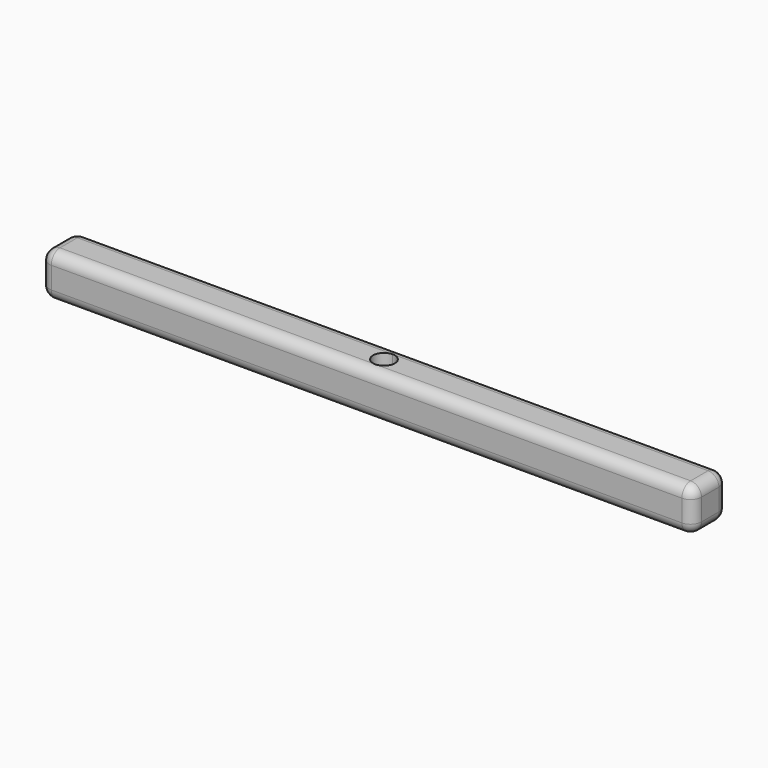
from build123d import *

# Parameters (mm, degrees)
F0_W          = 25.4
F0_H          = 25.4
F1_DEPTH      = 304.8
F1_DEPTH_BACK = 76.2
F2_R          = 6.35
F4_DEPTH      = 25.401


with BuildPart() as f1:
    # F0 (on Right) → F1 (new body, two sides)
    with BuildSketch(Plane.YZ) as f1_sk:
        Rectangle(F0_W, F0_H)
    extrude(amount=F1_DEPTH)
    extrude(f1_sk.sketch, amount=-F1_DEPTH_BACK)

    # F2
    f2_edges = [f1.edges().sort_by_distance(p)[0] for p in [
        (114.3, -12.7, 12.7),
        (114.3, 12.7, 12.7),
        (114.3, -12.7, -12.7),
        (114.3, 12.7, -12.7),
        (304.8, 12.7, 0),
        (304.8, 0, 12.7),
        (304.8, -12.7, 0),
        (304.8, 0, -12.7),
        (-76.2, 12.7, 0),
        (-76.2, 0, 12.7),
        (-76.2, -12.7, 0),
        (-76.2, 0, -12.7),
    ]]
    fillet(f2_edges, radius=F2_R)

    # F3 (on face) → F4 (cut, through all)
    with BuildSketch(Plane.XY.offset(12.7)):
        with BuildLine():
            ThreePointArc((114.2999998593, -6.35), (118.7901280108, -4.4901281103), (120.65, 0))
            ThreePointArc((120.65, 0), (118.7901280791, 4.4901280419), (114.3000000526, 6.35))
            ThreePointArc((114.3000000526, 6.35), (107.95, 9.66e-08), (114.2999998593, -6.35))
        make_face()
    extrude(amount=-F4_DEPTH, mode=Mode.SUBTRACT)


solid = f1.part
